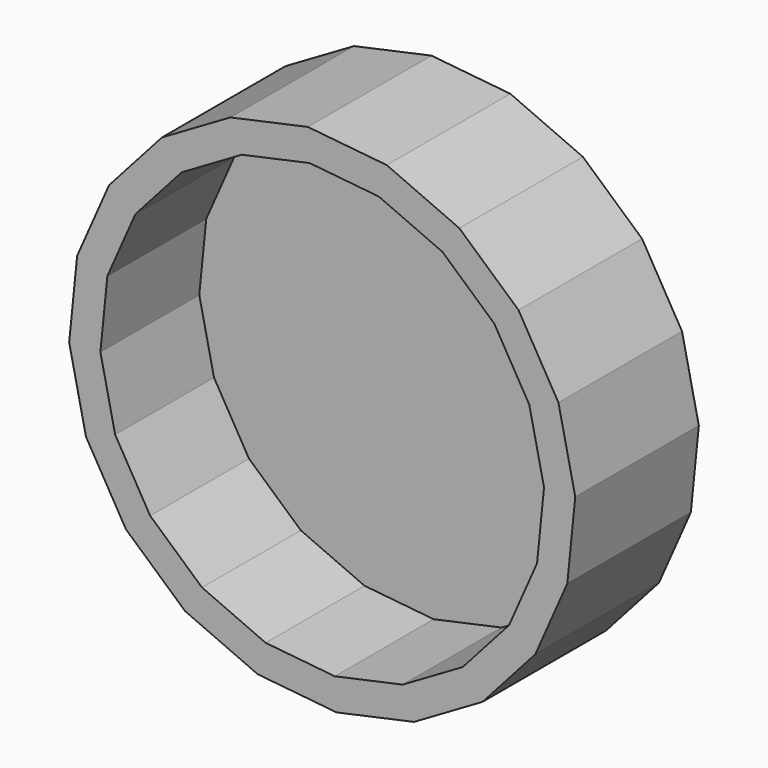
from build123d import *

# Parameters (mm, degrees)
F1_DEPTH = 19.05
F2_T     = -7.62


with BuildPart() as f1:
    # F0 (on Front) → F1 (new body, symmetric)
    with BuildSketch(Plane.XZ):
        Polygon((-58.265699, -22.651393), (-48.414307, -39.547846), (-33.823786, -52.57308), (-15.922357, -60.452095), (3.537664, -62.413638), (22.651393, -58.265699), (39.547846, -48.414307), (52.57308, -33.823786), (60.452095, -15.922357), (62.413638, 3.537664), (58.265699, 22.651393), (48.414307, 39.547846), (33.823786, 52.57308), (15.922357, 60.452095), (-3.537664, 62.413638), (-22.651393, 58.265699), (-39.547846, 48.414307), (-52.57308, 33.823786), (-60.452095, 15.922357), (-62.413638, -3.537664), align=None)
    extrude(amount=F1_DEPTH, both=True)

    # F2
    f2_openings = [f1.faces().sort_by_distance(p)[0] for p in [
        (0, -19.05, 0),
    ]]
    offset(amount=F2_T, openings=f2_openings)


solid = f1.part
